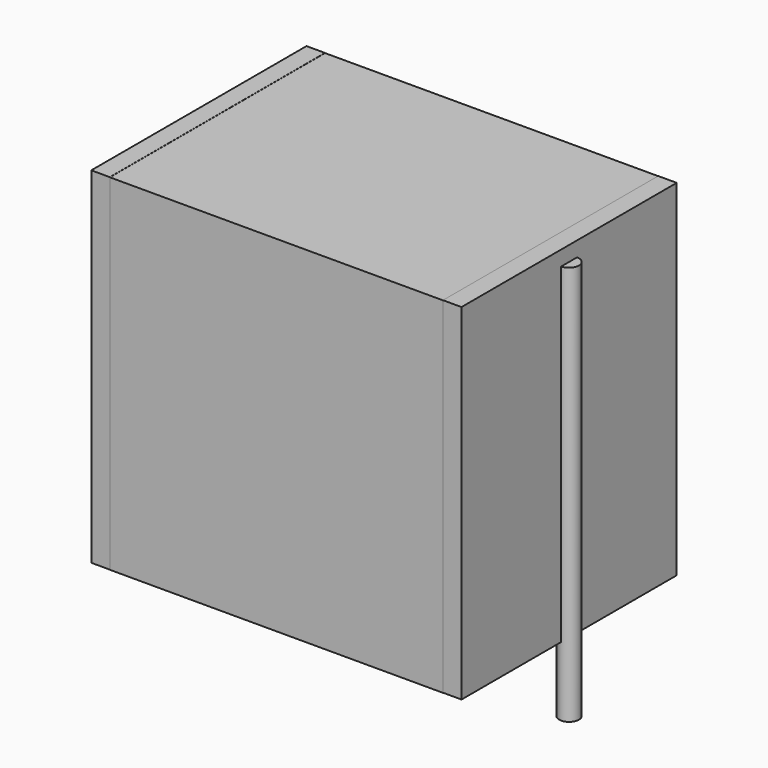
from build123d import *

# Parameters (mm, degrees)
SKETCH_W          = 13.5
SKETCH_H          = 10.9
PAD_DEPTH         = 14
SKETCH001_R       = 0.4
PAD001_DEPTH      = 13
PAD001_DEPTH_BACK = 3.2
SKETCH002_W       = 0.75
SKETCH002_H       = 10.9
PAD002_DEPTH      = 14


with BuildPart() as pad:
    # Sketch → Pad (new body)
    with BuildSketch(Plane.XY.offset(0.1)):
        with Locations((7.5, 0)):
            Rectangle(SKETCH_W, SKETCH_H)
    extrude(amount=PAD_DEPTH)


with BuildPart() as pad001:
    # Sketch001 → Pad001 (new body, two sides)
    with BuildSketch(Plane.XY.offset(0.5)) as pad001_sk:
        Circle(SKETCH001_R)
        with Locations((15, 0)):
            Circle(SKETCH001_R)
    extrude(amount=PAD001_DEPTH)
    extrude(pad001_sk.sketch, amount=-PAD001_DEPTH_BACK)


with BuildPart() as pad002:
    # Sketch002 → Pad002 (new body)
    with BuildSketch(Plane.XY.offset(0.105)):
        with Locations((0.375, 0)):
            Rectangle(SKETCH002_W, SKETCH002_H)
        with Locations((14.625, 0)):
            Rectangle(SKETCH002_W, SKETCH002_H)
    extrude(amount=PAD002_DEPTH)


solid = Compound([pad.part, pad001.part, pad002.part])
